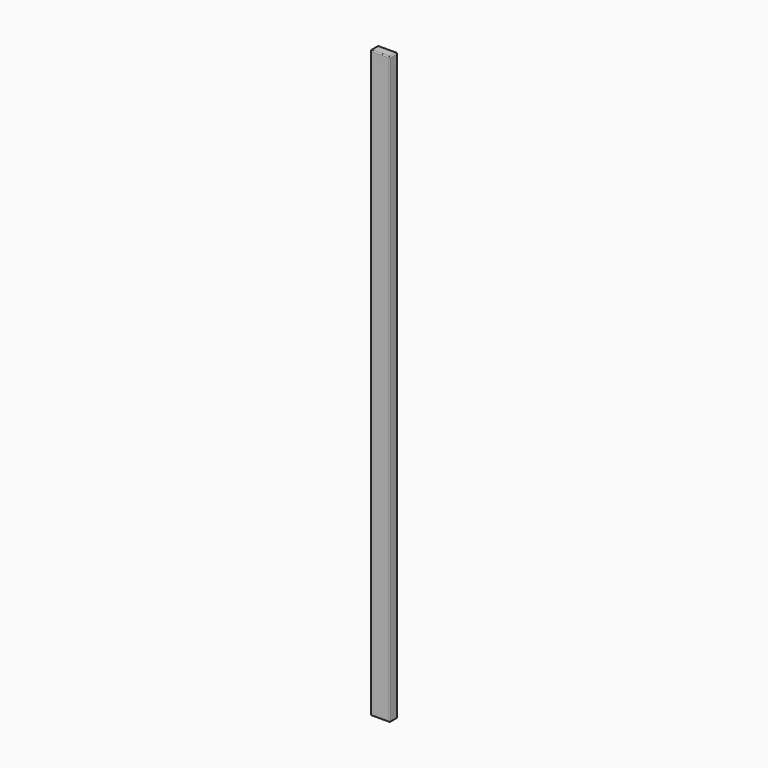
from build123d import *

# Parameters (mm, degrees)
SKETCH_W  = 10
SKETCH_H  = 5
PAD_DEPTH = 300
FILLET_R  = 0.5


with BuildPart() as part:
    # Sketch → Pad (new body)
    with BuildSketch(Plane.XY):
        with Locations((5, 2.5)):
            Rectangle(SKETCH_W, SKETCH_H)
    extrude(amount=PAD_DEPTH)

    # Fillet
    fillet_edges = [part.edges().sort_by_distance(p)[0] for p in [
        (10, 0, 150),
        (10, 5, 150),
        (10, 2.5, 0),
        (10, 2.5, 300),
        (0, 0, 150),
        (5, 0, 0),
        (5, 0, 300),
        (0, 5, 150),
        (0, 2.5, 0),
        (0, 2.5, 300),
        (5, 5, 0),
        (5, 5, 300),
    ]]
    fillet(fillet_edges, radius=FILLET_R)


solid = part.part
